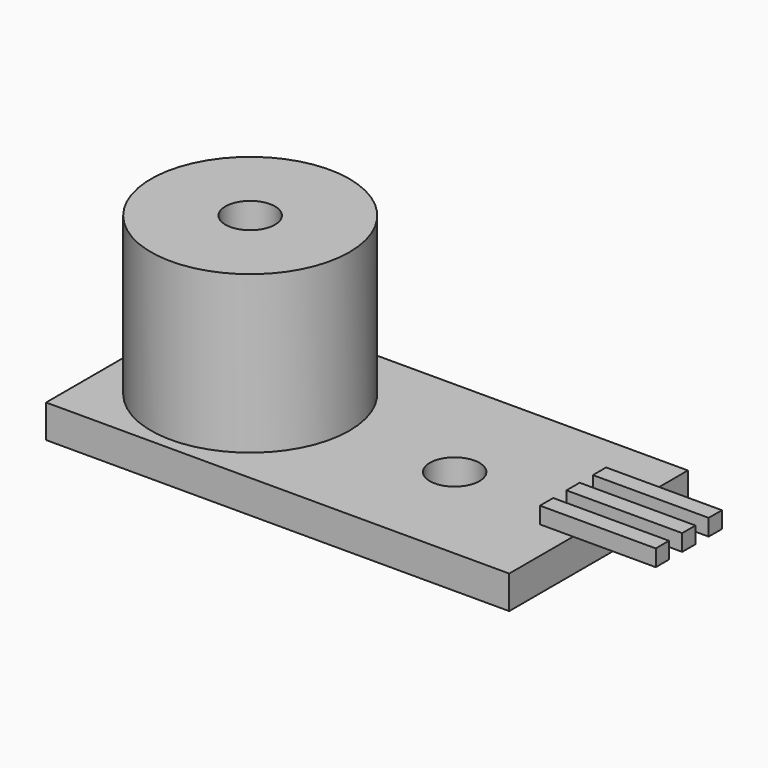
from build123d import *

# Parameters (mm, degrees)
F0_W     = 28
F0_H     = 13.5
F1_DEPTH = 2
F2_R     = 6
F3_DEPTH = 9.5
F4_R     = 1.5
F5_DEPTH = 2
F6_W     = 7
F6_H     = 1
F7_DEPTH = 1
F8_R     = 1.5
F9_DEPTH = 25


with BuildPart() as f1:
    # F0 (on Top) → F1 (new body)
    with BuildSketch(Plane.XY):
        with Locations((14, -6.75)):
            Rectangle(F0_W, F0_H)
    extrude(amount=F1_DEPTH)

    # F2 (on face) → F3 (join)
    with BuildSketch(Plane.XY.offset(2)):
        with Locations((6.98589, -6.804436)):
            Circle(F2_R)
    extrude(amount=F3_DEPTH)

    # F4 (on face) → F5 (cut)
    with BuildSketch(Plane.XY.offset(11.5)):
        with Locations((6.98589, -6.804436)):
            Circle(F4_R)
    extrude(amount=-F5_DEPTH, mode=Mode.SUBTRACT)

    # F6 (on face) → F7 (join)
    with BuildSketch(Plane.XY.offset(2)):
        with Locations((29.494992, -8.169937)):
            Rectangle(F6_W, F6_H)
        with Locations((29.494992, -6.169937)):
            Rectangle(F6_W, F6_H)
        with Locations((29.494992, -4.169937)):
            Rectangle(F6_W, F6_H)
    extrude(amount=F7_DEPTH)

    # F8 (on face) → F9 (cut)
    with BuildSketch(Plane.XY.offset(2)):
        with Locations((19.5, -7)):
            Circle(F8_R)
    extrude(amount=-F9_DEPTH, mode=Mode.SUBTRACT)


solid = f1.part
